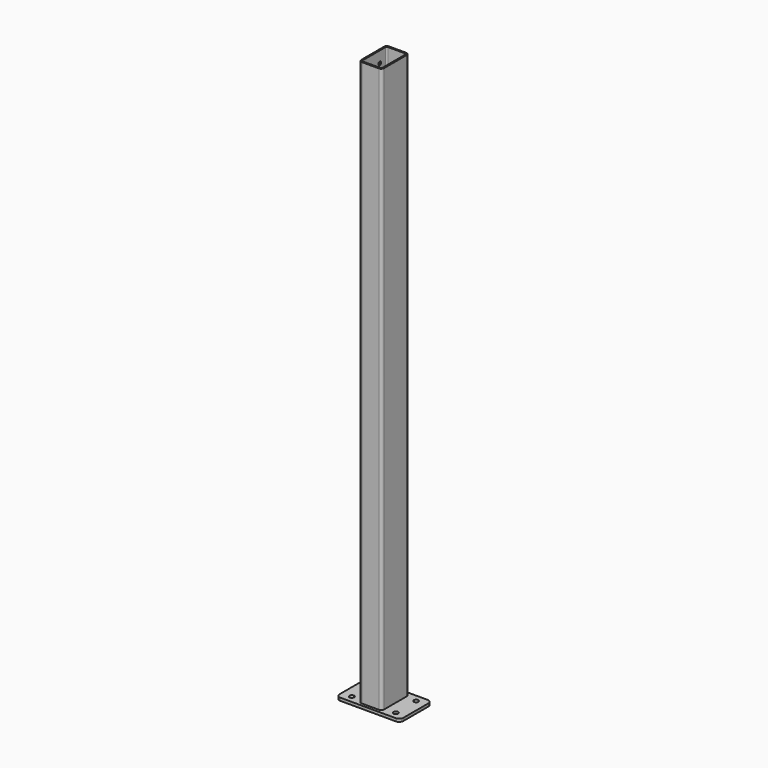
from build123d import *

# Parameters (mm, degrees)
F0_R     = 8.25
F1_DEPTH = 10
F3_DEPTH = 1990
F4_R     = 6.25
F5_DEPTH = 5


with BuildPart() as f1:
    # F0 (on Top) → F1 (new body)
    with BuildSketch(Plane.XY):
        with BuildLine():
            ThreePointArc((112.5, 55), (108.106602, 65.606602), (97.5, 70))
            Line((97.5, 70), (-97.5, 70))
            ThreePointArc((-97.5, 70), (-108.106602, 65.606602), (-112.5, 55))
            Line((-112.5, 55), (-112.5, -55))
            ThreePointArc((-112.5, -55), (-108.106602, -65.606602), (-97.5, -70))
            Line((-97.5, -70), (97.5, -70))
            ThreePointArc((97.5, -70), (108.106602, -65.606602), (112.5, -55))
            Line((112.5, -55), (112.5, 55))
        make_face()
        with Locations((-77.5, -45)):
            Circle(F0_R, mode=Mode.SUBTRACT)
        with Locations((77.5, -45)):
            Circle(F0_R, mode=Mode.SUBTRACT)
        with Locations((-77.5, 45)):
            Circle(F0_R, mode=Mode.SUBTRACT)
        with Locations((77.5, 45)):
            Circle(F0_R, mode=Mode.SUBTRACT)
    extrude(amount=F1_DEPTH)


with BuildPart() as f3:
    # F2 (on face) → F3 (new body)
    with BuildSketch(Plane.XY.offset(10)):
        with BuildLine():
            ThreePointArc((40, 50), (37.071068, 57.071068), (30, 60))
            Line((30, 60), (-30, 60))
            ThreePointArc((-30, 60), (-37.071068, 57.071068), (-40, 50))
            Line((-40, 50), (-40, -50))
            ThreePointArc((-40, -50), (-37.071068, -57.071068), (-30, -60))
            Line((-30, -60), (30, -60))
            ThreePointArc((30, -60), (37.071068, -57.071068), (40, -50))
            Line((40, -50), (40, 50))
        make_face()
        with BuildLine():
            ThreePointArc((-35, 50), (-33.535534, 53.535534), (-30, 55))
            Line((-30, 55), (30, 55))
            ThreePointArc((30, 55), (33.535534, 53.535534), (35, 50))
            Line((35, 50), (35, -50))
            ThreePointArc((35, -50), (33.535534, -53.535534), (30, -55))
            Line((30, -55), (-30, -55))
            ThreePointArc((-30, -55), (-33.535534, -53.535534), (-35, -50))
            Line((-35, -50), (-35, 50))
        make_face(mode=Mode.SUBTRACT)
    extrude(amount=F3_DEPTH)

    # F4 (on face) → F5 (cut, through all)
    with BuildSketch(Plane(origin=(-40, 0, 0), x_dir=(0, -1, 0), z_dir=(-1, 0, 0))):
        with BuildLine():
            ThreePointArc((8, 1855), (0, 1863), (-8, 1855))
            Line((-8, 1855), (-8, 155))
            ThreePointArc((-8, 155), (0, 147), (8, 155))
            Line((8, 155), (8, 1855))
        make_face()
        with Locations((-25, 1960)):
            Circle(F4_R)
        with Locations((-25, 1885)):
            Circle(F4_R)
        with Locations((25, 1960)):
            Circle(F4_R)
        with Locations((25, 1885)):
            Circle(F4_R)
    extrude(amount=-F5_DEPTH, mode=Mode.SUBTRACT)


solid = Compound([f1.part, f3.part])
